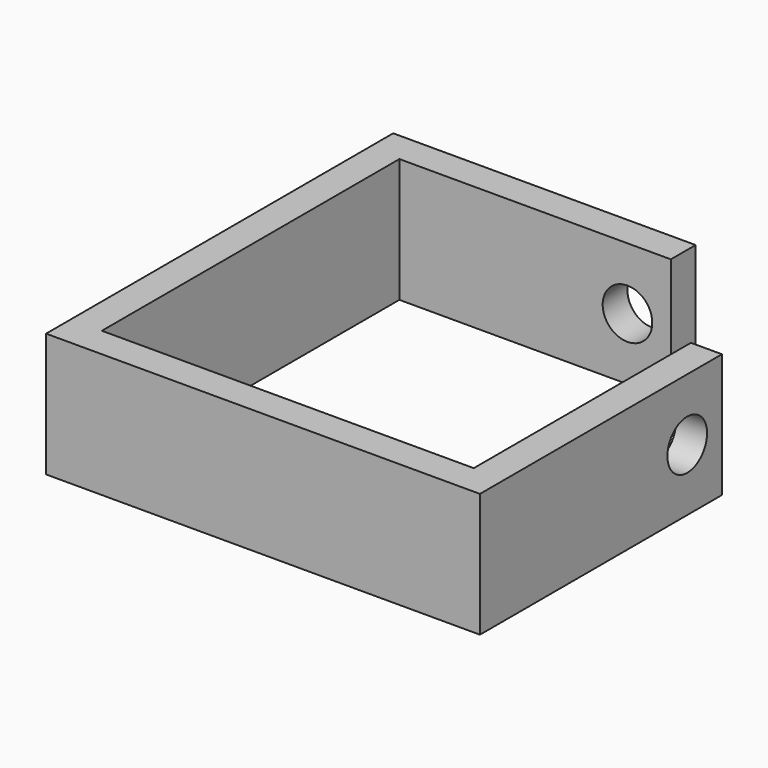
from build123d import *

# Parameters (mm, degrees)
F1_DEPTH = 25.4
F2_R     = 5.08
F3_DEPTH = 12.7
F4_R     = 5.08
F5_DEPTH = 6.351


with BuildPart() as f1:
    # F0 (on Top) → F1 (new body)
    with BuildSketch(Plane.XY):
        Polygon((-20.574, 6.35), (-82.55, 6.35), (-82.55, -82.55), (6.35, -82.55), (6.35, -20.574), (0, -20.574), (0, -76.2), (-76.2, -76.2), (-76.2, 0), (-20.574, 0), align=None)
    extrude(amount=F1_DEPTH)

    # F2 (on face) → F3 (cut)
    with BuildSketch(Plane.XZ):
        with Locations((-29.464, 12.7)):
            Circle(F2_R)
    extrude(amount=-F3_DEPTH, mode=Mode.SUBTRACT)

    # F4 (on face) → F5 (cut, through all)
    with BuildSketch(Plane(origin=(0, 0, 0), x_dir=(0, -1, 0), z_dir=(-1, 0, 0))):
        with Locations((29.464, 12.7)):
            Circle(F4_R)
    extrude(amount=-F5_DEPTH, mode=Mode.SUBTRACT)


solid = f1.part
